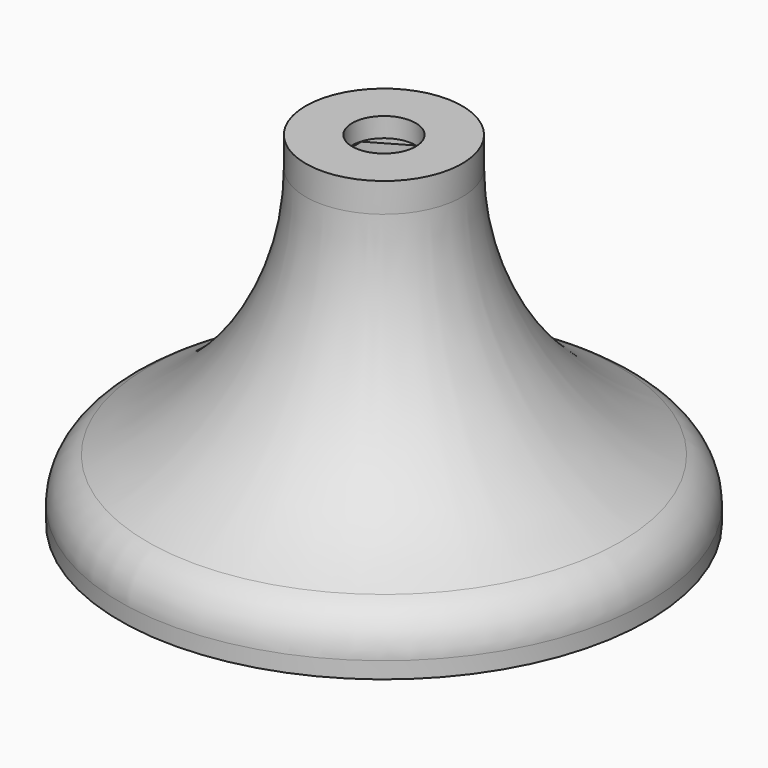
from build123d import *

# Parameters (mm, degrees)
F3_DEPTH  = 1
F4_R      = 3.25
F5_DEPTH  = 2.001
F8_DEPTH  = 2
F10_DEPTH = 27.001


with BuildPart() as f1:
    # F0 (on Front) → F1 (revolve)
    with BuildSketch(Plane.XZ):
        with BuildLine():
            Line((0, 32), (0, 35))
            Line((0, 35), (-8, 35))
            Line((-8, 35), (-8, 32))
            ThreePointArc((-8, 32), (-12.379208, 16.766787), (-24.179687, 6.184872))
            ThreePointArc((-24.179687, 6.184872), (-26.236652, 4.340318), (-27, 1.684987))
            Line((-27, 1.684987), (-27, 0))
            Line((-27, 0), (-25, 0))
            Line((-25, 0), (-25, 1.684987))
            ThreePointArc((-25, 1.684987), (-24.541991, 3.278186), (-23.307813, 4.384918))
            ThreePointArc((-23.307813, 4.384918), (-10.684547, 15.704655), (-6, 32))
            Line((-6, 32), (0, 32))
        make_face()
    revolve(axis=Axis((0, 0, 17.5), (0, 0, -1)))

    # F2 (on face) → F3 (cut)
    with BuildSketch(Plane(origin=(0, 0, 32), x_dir=(1, 0, 0), z_dir=(0, 0, -1))):
        Polygon((4.25, -2.453739), (4.25, 2.453739), (0, 4.907477), (-4.25, 2.453739), (-4.25, -2.453739), (0, -4.907477), align=None)
    extrude(amount=-F3_DEPTH, mode=Mode.SUBTRACT)

    # F4 (on face) → F5 (cut, through all)
    with BuildSketch(Plane(origin=(0, 0, 33), x_dir=(1, 0, 0), z_dir=(0, 0, -1))):
        Circle(F4_R)
    extrude(amount=-F5_DEPTH, mode=Mode.SUBTRACT)

    # F7 (on offset) → F8 (join)
    with BuildSketch(Plane(origin=(0, 0, 1), x_dir=(1, 0, 0), z_dir=(0, 0, -1))):
        with BuildLine():
            Line((5.5, -9.526279), (12.5, -21.650635))
            ThreePointArc((12.5, -21.650635), (25, 0), (12.5, 21.650635))
            Line((12.5, 21.650635), (5.5, 9.526279))
            ThreePointArc((5.5, 9.526279), (11, 0), (5.5, -9.526279))
        make_face()
        with BuildLine():
            ThreePointArc((-12.5, 21.650635), (-25, 0), (-12.5, -21.650635))
            Line((-12.5, -21.650635), (-5.5, -9.526279))
            ThreePointArc((-5.5, -9.526279), (-11, 0), (-5.5, 9.526279))
            Line((-5.5, 9.526279), (-12.5, 21.650635))
        make_face()
    extrude(amount=-F8_DEPTH)

    # F9 (on Front) → F10 (cut, through all)
    with BuildSketch(Plane.XZ):
        with BuildLine():
            Line((1.75, 0), (1.75, 2))
            ThreePointArc((1.75, 2), (0, 3.75), (-1.75, 2))
            Line((-1.75, 2), (-1.75, 0))
            Line((-1.75, 0), (1.75, 0))
        make_face()
    extrude(amount=-F10_DEPTH, mode=Mode.SUBTRACT)


solid = f1.part
